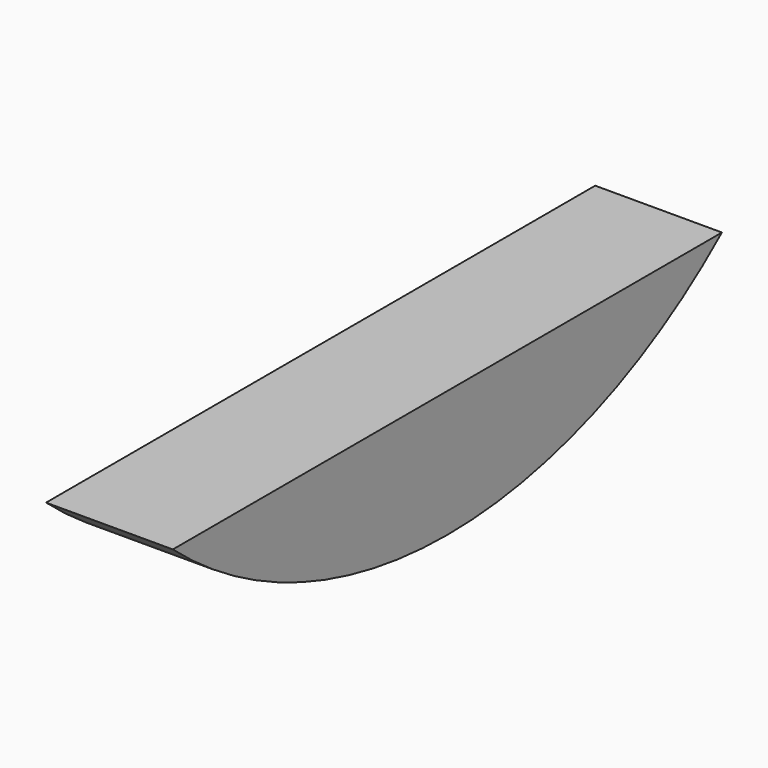
from build123d import *

# Parameters (mm, degrees)
BOX004_W          = 0.3
BOX004_H          = 3
BOX004_DEPTH      = 2
CYLINDER001_W     = 1.25
CYLINDER001_H     = 0.3
CYLINDER001_ANGLE = 180


with BuildPart() as cube001:
    # Box004 → Box004 (new body)
    with BuildSketch(Plane(origin=(6.7, 1.5, 1.1), x_dir=(1, 0, 0), z_dir=(0, 0, 1))):
        with Locations((0.15, 1.5)):
            Rectangle(BOX004_W, BOX004_H)
    extrude(amount=BOX004_DEPTH)


with BuildPart() as cut002:
    # Cylinder001 → Cylinder001 (revolve)
    with BuildSketch(Plane(origin=(6.7, 3.1, 2.05), x_dir=(0, -1, 0), z_dir=(0, 0, 1))):
        with Locations((0.625, 0.15)):
            Rectangle(CYLINDER001_W, CYLINDER001_H)
    revolve(axis=Axis((6.7, 3.1, 2.05), (1, 0, 0)), revolution_arc=CYLINDER001_ANGLE)

    # Cut002: cut Cube001
    add(cube001.part, mode=Mode.SUBTRACT)


with BuildPart() as part_mirroring001:
    # Part__Mirroring001: instance of Cut002
    add(cut002.part.mirror(Plane(origin=(0, 0, 0), x_dir=(0, -1, 0), z_dir=(1, 0, 0))))


solid = part_mirroring001.part
